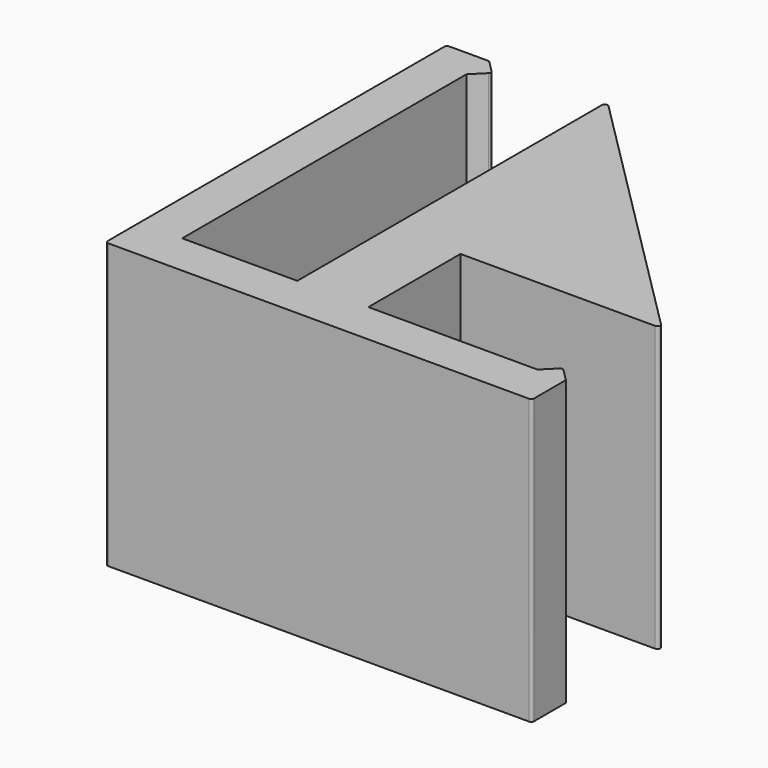
from build123d import *

# Parameters (mm, degrees)
F1_DEPTH = 20


with BuildPart() as f1:
    # F0 (on Top) → F1 (new body)
    with BuildSketch(Plane.XY):
        with BuildLine():
            Line((-48.357311, 53.74132), (-51.157311, 53.74132))
            ThreePointArc((-51.157311, 53.74132), (-51.298732, 53.682742), (-51.357311, 53.54132))
            Line((-51.357311, 53.54132), (-51.357311, 23.94132))
            ThreePointArc((-51.357311, 23.94132), (-51.298732, 23.799899), (-51.157311, 23.74132))
            Line((-51.157311, 23.74132), (-21.557311, 23.74132))
            ThreePointArc((-21.557311, 23.74132), (-21.415889, 23.799899), (-21.357311, 23.94132))
            Line((-21.357311, 23.94132), (-21.357311, 26.74132))
            Line((-21.357311, 26.74132), (-22.215566, 27.599835))
            ThreePointArc((-22.215566, 27.599835), (-22.357009, 27.658435), (-22.498451, 27.599835))
            Line((-22.498451, 27.599835), (-23.356707, 26.74132))
            Line((-23.356707, 26.74132), (-35.257311, 26.74132))
            Line((-35.257311, 26.74132), (-35.257311, 34.84132))
            Line((-35.257311, 34.84132), (-21.557311, 34.84132))
            ThreePointArc((-21.557311, 34.84132), (-21.372535, 34.964784), (-21.415889, 35.182742))
            Line((-21.415889, 35.182742), (-39.915889, 53.682742))
            ThreePointArc((-39.915889, 53.682742), (-40.133847, 53.726096), (-40.257311, 53.54132))
            Line((-40.257311, 53.54132), (-40.257311, 26.74132))
            Line((-40.257311, 26.74132), (-48.357311, 26.74132))
            Line((-48.357311, 26.74132), (-48.357311, 51.74132))
            Line((-48.357311, 51.74132), (-47.498732, 52.599899))
            ThreePointArc((-47.498732, 52.599899), (-47.440153, 52.74132), (-47.498732, 52.882742))
            Line((-47.498732, 52.882742), (-48.357311, 53.74132))
        make_face()
    extrude(amount=F1_DEPTH)


solid = f1.part
